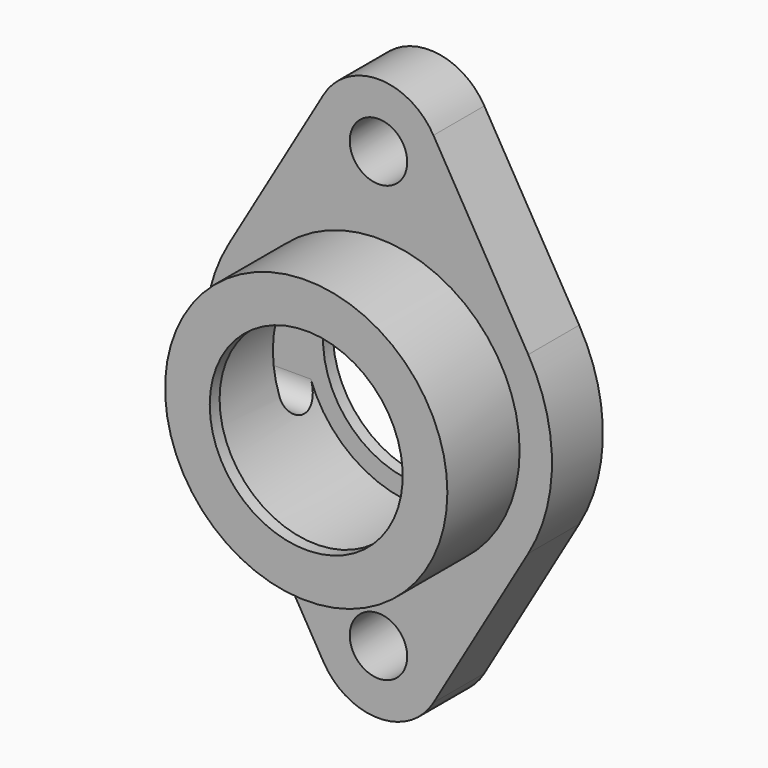
from build123d import *

# Parameters (mm, degrees)
F0_R      = 7.112
F1_DEPTH  = 15.748
F2_R      = 34.925
F3_DEPTH  = 22.352
F4_R      = 28.575
F5_DEPTH  = 38.101
F6_R      = 34.925
F7_DEPTH  = 3.048
F8_R      = 23.876
F9_DEPTH  = 38.101
F10_R     = 28.575
F11_DEPTH = 3.048
F12_R     = 23.876
F13_DEPTH = 38.101
F16_DEPTH = 42.926


with BuildPart() as f1:
    # F0 (on Front) → F1 (new body)
    with BuildSketch(Plane.XZ):
        with BuildLine():
            Line((-13.59501, 61.796283), (-37.057366, 21.665481))
            ThreePointArc((-37.057366, 21.665481), (-42.926, 0), (-37.057366, -21.665481))
            Line((-37.057366, -21.665481), (-13.59501, -61.796283))
            ThreePointArc((-13.59501, -61.796283), (0, -69.596), (13.59501, -61.796283))
            Line((13.59501, -61.796283), (37.057366, -21.665481))
            ThreePointArc((37.057366, -21.665481), (42.926, 0), (37.057366, 21.665481))
            Line((37.057366, 21.665481), (13.59501, 61.796283))
            ThreePointArc((13.59501, 61.796283), (0, 69.596), (-13.59501, 61.796283))
        make_face()
        with Locations((0, -53.848)):
            Circle(F0_R, mode=Mode.SUBTRACT)
        with Locations((0, 53.848)):
            Circle(F0_R, mode=Mode.SUBTRACT)
    extrude(amount=-F1_DEPTH)

    # F2 (on face) → F3 (join)
    with BuildSketch(Plane.XZ):
        Circle(F2_R)
    extrude(amount=F3_DEPTH)

    # F4 (on face) → F5 (cut, through all)
    with BuildSketch(Plane.XZ.offset(22.352)):
        Circle(F4_R)
    extrude(amount=-F5_DEPTH, mode=Mode.SUBTRACT)

    # F6 (on face) → F7 (join)
    with BuildSketch(Plane.XZ.offset(22.352)):
        Circle(F6_R)
    extrude(amount=-F7_DEPTH)

    # F8 (on face) → F9 (cut, through all)
    with BuildSketch(Plane(origin=(0, 15.748, 0), x_dir=(-1, 0, 0), z_dir=(0, 1, 0))):
        Circle(F8_R)
    extrude(amount=-F9_DEPTH, mode=Mode.SUBTRACT)

    # F10 (on face) → F11 (join)
    with BuildSketch(Plane(origin=(0, 15.748, 0), x_dir=(-1, 0, 0), z_dir=(0, 1, 0))):
        Circle(F10_R)
    extrude(amount=-F11_DEPTH)

    # F12 (on face) → F13 (cut, through all)
    with BuildSketch(Plane.XZ.offset(22.352)):
        Circle(F12_R)
    extrude(amount=-F13_DEPTH, mode=Mode.SUBTRACT)

    # F15 (on offset) → F16 (cut)
    with BuildSketch(Plane.YZ.offset(-42.926)):
        with BuildLine():
            Line((12.7, -9.652), (12.7, 9.652))
            ThreePointArc((12.7, 9.652), (7.874, 14.478), (3.048, 9.652))
            Line((3.048, 9.652), (3.048, -9.652))
            ThreePointArc((3.048, -9.652), (7.874, -14.478), (12.7, -9.652))
        make_face()
    extrude(amount=F16_DEPTH, mode=Mode.SUBTRACT)


solid = f1.part
